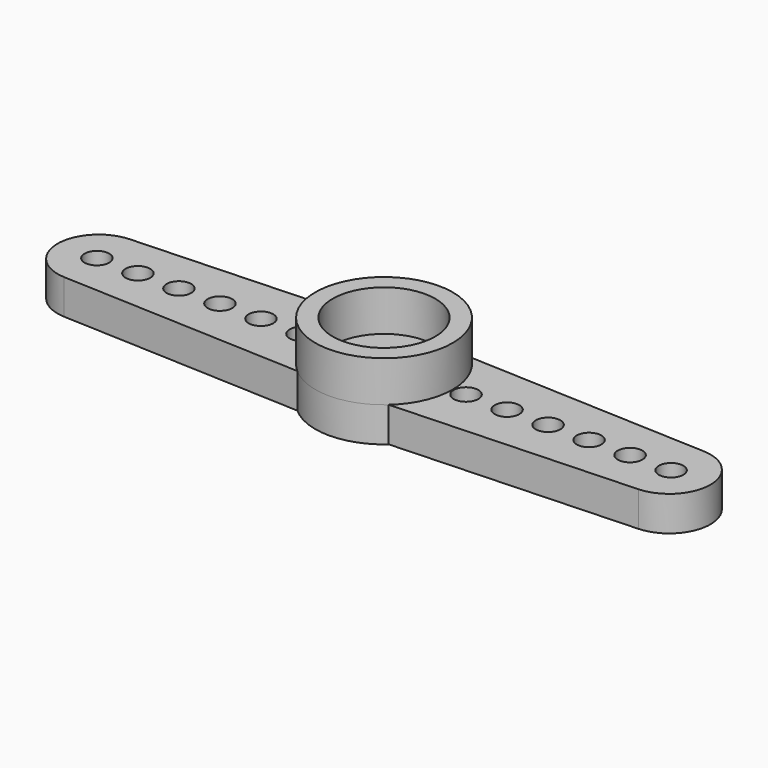
from build123d import *

# Parameters (mm, degrees)
F0_R     = 0.6
F1_DEPTH = 1.7
F2_R     = 3.35
F3_DEPTH = 2
F4_R     = 2.5
F5_DEPTH = 1
F6_R     = 1.1
F7_DEPTH = 2.701
F8_R     = 2.5
F9_DEPTH = 2


with BuildPart() as f1:
    # F0 (on Top) → F1 (new body)
    with BuildSketch(Plane.XY):
        with BuildLine():
            ThreePointArc((2.2299103121, -2.5), (3.057180036, -1.369726333), (3.35, 0))
            ThreePointArc((3.35, 0), (3.057180036, 1.369726333), (2.2299103121, 2.5))
            ThreePointArc((2.2299103121, 2.5), (0, 3.35), (-2.2299103121, 2.5))
            ThreePointArc((-2.2299103121, 2.5), (-3.35, 0), (-2.2299103121, -2.5))
            ThreePointArc((-2.2299103121, -2.5), (0, -3.35), (2.2299103121, -2.5))
        make_face()
        with BuildLine():
            ThreePointArc((2.2299103121, 2.5), (3.057180036, 1.369726333), (3.35, 0))
            ThreePointArc((3.35, 0), (3.057180036, -1.369726333), (2.2299103121, -2.5))
            Line((2.2299103121, -2.5), (14, -2))
            ThreePointArc((14, -2), (15.9168426648, 0), (14, 2))
            Line((14, 2), (2.2299103121, 2.5))
        make_face()
        with Locations((4, 0)):
            Circle(F0_R, mode=Mode.SUBTRACT)
        with Locations((6, 0)):
            Circle(F0_R, mode=Mode.SUBTRACT)
        with Locations((8, 0)):
            Circle(F0_R, mode=Mode.SUBTRACT)
        with Locations((10, 0)):
            Circle(F0_R, mode=Mode.SUBTRACT)
        with Locations((12, 0)):
            Circle(F0_R, mode=Mode.SUBTRACT)
        with Locations((14, 0)):
            Circle(F0_R, mode=Mode.SUBTRACT)
        with BuildLine():
            ThreePointArc((-2.2299103121, -2.5), (-3.35, 0), (-2.2299103121, 2.5))
            Line((-2.2299103121, 2.5), (-14, 2))
            ThreePointArc((-14, 2), (-15.9168426648, 0), (-14, -2))
            Line((-14, -2), (-2.2299103121, -2.5))
        make_face()
        with Locations((-14, 0)):
            Circle(F0_R, mode=Mode.SUBTRACT)
        with Locations((-12, 0)):
            Circle(F0_R, mode=Mode.SUBTRACT)
        with Locations((-10, 0)):
            Circle(F0_R, mode=Mode.SUBTRACT)
        with Locations((-8, 0)):
            Circle(F0_R, mode=Mode.SUBTRACT)
        with Locations((-6, 0)):
            Circle(F0_R, mode=Mode.SUBTRACT)
        with Locations((-4, 0)):
            Circle(F0_R, mode=Mode.SUBTRACT)
    extrude(amount=F1_DEPTH)

    # F2 (on face) → F3 (join)
    with BuildSketch(Plane.XY.offset(1.7)):
        Circle(F2_R)
    extrude(amount=F3_DEPTH)

    # F4 (on face) → F5 (cut)
    with BuildSketch(Plane(origin=(0, 0, 0), x_dir=(1, 0, 0), z_dir=(0, 0, -1))):
        Circle(F4_R)
    extrude(amount=-F5_DEPTH, mode=Mode.SUBTRACT)

    # F6 (on face) → F7 (cut, through all)
    with BuildSketch(Plane(origin=(0, 0, 1), x_dir=(1, 0, 0), z_dir=(0, 0, -1))):
        Circle(F6_R)
    extrude(amount=-F7_DEPTH, mode=Mode.SUBTRACT)

    # F8 (on face) → F9 (cut)
    with BuildSketch(Plane.XY.offset(3.7)):
        Circle(F8_R)
    extrude(amount=-F9_DEPTH, mode=Mode.SUBTRACT)


solid = f1.part
